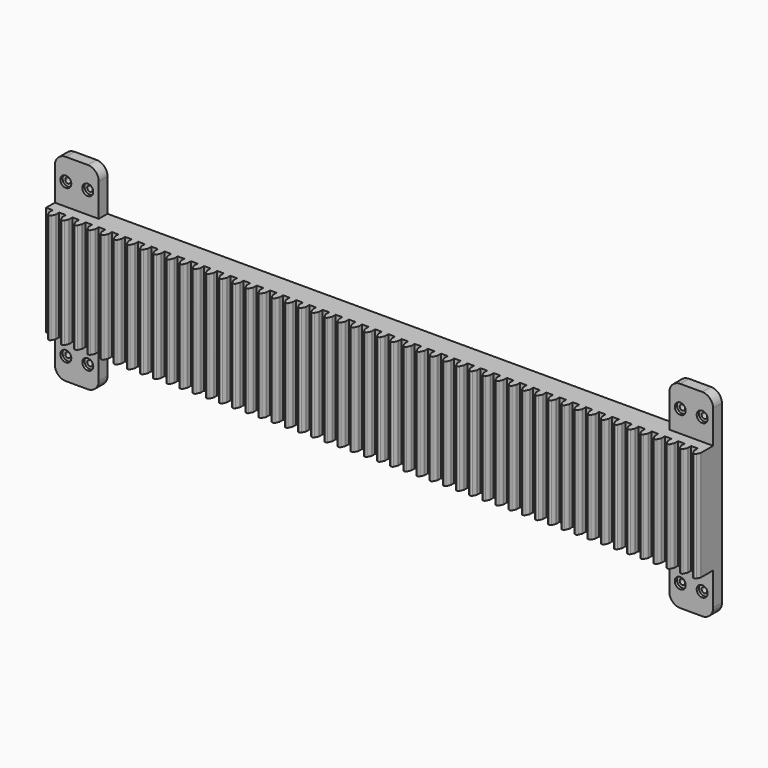
from build123d import *

# Parameters (mm, degrees)
F0_W            = 762
F0_H            = 127
F1_DEPTH        = 25.4
F3_DEPTH        = 127
F5_DEPTH        = 12.7
F10_D           = 6.35
F10_CBORE_D     = 12.7
F10_CBORE_DEPTH = 3.175


with BuildPart() as f1:
    # F0 (on Front) → F1 (new body)
    with BuildSketch(Plane.XZ):
        with Locations((-2.667001, -208.162353)):
            Rectangle(F0_W, F0_H)
    extrude(amount=F1_DEPTH)

    # F2 (on face) → F3 (join, through all)
    with BuildSketch(Plane(origin=(0, 0, -271.662353), x_dir=(1, 0, 0), z_dir=(0, 0, -1))):
        Polygon((-376.047001, 25.4), (-383.667001, 25.4), (-383.667001, 19.05), (378.332999, 19.05), (378.332999, 25.4), (370.712999, 25.4), (363.092999, 25.4), (355.472999, 25.4), (347.852999, 25.4), (340.232999, 25.4), (332.612999, 25.4), (324.992999, 25.4), (317.372999, 25.4), (309.752999, 25.4), (302.132999, 25.4), (294.512999, 25.4), (286.892999, 25.4), (279.272999, 25.4), (271.652999, 25.4), (264.032999, 25.4), (256.412999, 25.4), (248.792999, 25.4), (241.172999, 25.4), (233.552999, 25.4), (225.932999, 25.4), (218.312999, 25.4), (210.692999, 25.4), (203.072999, 25.4), (195.452999, 25.4), (187.832999, 25.4), (180.212999, 25.4), (172.592999, 25.4), (164.972999, 25.4), (157.352999, 25.4), (149.732999, 25.4), (142.112999, 25.4), (134.492999, 25.4), (126.872999, 25.4), (119.252999, 25.4), (111.632999, 25.4), (104.012999, 25.4), (96.392999, 25.4), (88.772999, 25.4), (81.152999, 25.4), (73.532999, 25.4), (65.912999, 25.4), (58.292999, 25.4), (50.672999, 25.4), (43.052999, 25.4), (35.432999, 25.4), (27.812999, 25.4), (20.192999, 25.4), (12.572999, 25.4), (4.952999, 25.4), (-2.667001, 25.4), (-10.287001, 25.4), (-17.907001, 25.4), (-25.527001, 25.4), (-33.147001, 25.4), (-40.767001, 25.4), (-48.387001, 25.4), (-56.007001, 25.4), (-63.627001, 25.4), (-71.247001, 25.4), (-78.867001, 25.4), (-86.487001, 25.4), (-94.107001, 25.4), (-101.727001, 25.4), (-109.347001, 25.4), (-116.967001, 25.4), (-124.587001, 25.4), (-132.207001, 25.4), (-139.827001, 25.4), (-147.447001, 25.4), (-155.067001, 25.4), (-162.687001, 25.4), (-170.307001, 25.4), (-177.927001, 25.4), (-185.547001, 25.4), (-193.167001, 25.4), (-200.787001, 25.4), (-208.407001, 25.4), (-216.027001, 25.4), (-223.647001, 25.4), (-231.267001, 25.4), (-238.887001, 25.4), (-246.507001, 25.4), (-254.127001, 25.4), (-261.747001, 25.4), (-269.367001, 25.4), (-276.987001, 25.4), (-284.607001, 25.4), (-292.227001, 25.4), (-299.847001, 25.4), (-307.467001, 25.4), (-315.087001, 25.4), (-322.707001, 25.4), (-330.327001, 25.4), (-337.947001, 25.4), (-345.567001, 25.4), (-353.187001, 25.4), (-360.807001, 25.4), (-368.427001, 25.4), align=None)
        with BuildLine():
            Line((-360.807001, 30.12806), (-360.807001, 25.4))
            Line((-360.807001, 25.4), (-353.187001, 25.4))
            Line((-353.187001, 25.4), (-353.187001, 30.12806))
            ThreePointArc((-353.187001, 30.12806), (-353.224631, 30.471658), (-353.335737, 30.798966))
            Line((-353.335737, 30.798966), (-355.128429, 34.643406))
            ThreePointArc((-355.128429, 34.643406), (-355.714229, 35.311384), (-356.567192, 35.56))
            Line((-356.567192, 35.56), (-357.426809, 35.56))
            ThreePointArc((-357.426809, 35.56), (-358.279772, 35.311384), (-358.865572, 34.643406))
            Line((-358.865572, 34.643406), (-360.658264, 30.798966))
            ThreePointArc((-360.658264, 30.798966), (-360.76937, 30.471658), (-360.807001, 30.12806))
        make_face()
        with BuildLine():
            Line((-376.047001, 30.12806), (-376.047001, 25.4))
            Line((-376.047001, 25.4), (-368.427001, 25.4))
            Line((-368.427001, 25.4), (-368.427001, 30.12806))
            ThreePointArc((-368.427001, 30.12806), (-368.464631, 30.471658), (-368.575737, 30.798966))
            Line((-368.575737, 30.798966), (-370.368429, 34.643406))
            ThreePointArc((-370.368429, 34.643406), (-370.954229, 35.311384), (-371.807192, 35.56))
            Line((-371.807192, 35.56), (-372.666809, 35.56))
            ThreePointArc((-372.666809, 35.56), (-373.519772, 35.311384), (-374.105572, 34.643406))
            Line((-374.105572, 34.643406), (-375.898264, 30.798966))
            ThreePointArc((-375.898264, 30.798966), (-376.00937, 30.471658), (-376.047001, 30.12806))
        make_face()
        with BuildLine():
            Line((-345.567001, 30.12806), (-345.567001, 25.4))
            Line((-345.567001, 25.4), (-337.947001, 25.4))
            Line((-337.947001, 25.4), (-337.947001, 30.12806))
            ThreePointArc((-337.947001, 30.12806), (-337.984631, 30.471658), (-338.095737, 30.798966))
            Line((-338.095737, 30.798966), (-339.888429, 34.643406))
            ThreePointArc((-339.888429, 34.643406), (-340.474229, 35.311384), (-341.327192, 35.56))
            Line((-341.327192, 35.56), (-342.186809, 35.56))
            ThreePointArc((-342.186809, 35.56), (-343.039772, 35.311384), (-343.625572, 34.643406))
            Line((-343.625572, 34.643406), (-345.418264, 30.798966))
            ThreePointArc((-345.418264, 30.798966), (-345.52937, 30.471658), (-345.567001, 30.12806))
        make_face()
        with BuildLine():
            Line((-315.087001, 30.12806), (-315.087001, 25.4))
            Line((-315.087001, 25.4), (-307.467001, 25.4))
            Line((-307.467001, 25.4), (-307.467001, 30.12806))
            ThreePointArc((-307.467001, 30.12806), (-307.504631, 30.471658), (-307.615737, 30.798966))
            Line((-307.615737, 30.798966), (-309.408429, 34.643406))
            ThreePointArc((-309.408429, 34.643406), (-309.994229, 35.311384), (-310.847192, 35.56))
            Line((-310.847192, 35.56), (-311.706809, 35.56))
            ThreePointArc((-311.706809, 35.56), (-312.559772, 35.311384), (-313.145572, 34.643406))
            Line((-313.145572, 34.643406), (-314.938264, 30.798966))
            ThreePointArc((-314.938264, 30.798966), (-315.04937, 30.471658), (-315.087001, 30.12806))
        make_face()
        with BuildLine():
            Line((-330.327001, 30.12806), (-330.327001, 25.4))
            Line((-330.327001, 25.4), (-322.707001, 25.4))
            Line((-322.707001, 25.4), (-322.707001, 30.12806))
            ThreePointArc((-322.707001, 30.12806), (-322.744631, 30.471658), (-322.855737, 30.798966))
            Line((-322.855737, 30.798966), (-324.648429, 34.643406))
            ThreePointArc((-324.648429, 34.643406), (-325.234229, 35.311384), (-326.087192, 35.56))
            Line((-326.087192, 35.56), (-326.946809, 35.56))
            ThreePointArc((-326.946809, 35.56), (-327.799772, 35.311384), (-328.385572, 34.643406))
            Line((-328.385572, 34.643406), (-330.178264, 30.798966))
            ThreePointArc((-330.178264, 30.798966), (-330.28937, 30.471658), (-330.327001, 30.12806))
        make_face()
        with BuildLine():
            Line((-299.847001, 30.12806), (-299.847001, 25.4))
            Line((-299.847001, 25.4), (-292.227001, 25.4))
            Line((-292.227001, 25.4), (-292.227001, 30.12806))
            ThreePointArc((-292.227001, 30.12806), (-292.264631, 30.471658), (-292.375737, 30.798966))
            Line((-292.375737, 30.798966), (-294.168429, 34.643406))
            ThreePointArc((-294.168429, 34.643406), (-294.754229, 35.311384), (-295.607192, 35.56))
            Line((-295.607192, 35.56), (-296.466809, 35.56))
            ThreePointArc((-296.466809, 35.56), (-297.319772, 35.311384), (-297.905572, 34.643406))
            Line((-297.905572, 34.643406), (-299.698264, 30.798966))
            ThreePointArc((-299.698264, 30.798966), (-299.80937, 30.471658), (-299.847001, 30.12806))
        make_face()
        with BuildLine():
            Line((-284.607001, 30.12806), (-284.607001, 25.4))
            Line((-284.607001, 25.4), (-276.987001, 25.4))
            Line((-276.987001, 25.4), (-276.987001, 30.12806))
            ThreePointArc((-276.987001, 30.12806), (-277.024631, 30.471658), (-277.135737, 30.798966))
            Line((-277.135737, 30.798966), (-278.928429, 34.643406))
            ThreePointArc((-278.928429, 34.643406), (-279.514229, 35.311384), (-280.367192, 35.56))
            Line((-280.367192, 35.56), (-281.226809, 35.56))
            ThreePointArc((-281.226809, 35.56), (-282.079772, 35.311384), (-282.665572, 34.643406))
            Line((-282.665572, 34.643406), (-284.458264, 30.798966))
            ThreePointArc((-284.458264, 30.798966), (-284.56937, 30.471658), (-284.607001, 30.12806))
        make_face()
        with BuildLine():
            Line((-269.367001, 30.12806), (-269.367001, 25.4))
            Line((-269.367001, 25.4), (-261.747001, 25.4))
            Line((-261.747001, 25.4), (-261.747001, 30.12806))
            ThreePointArc((-261.747001, 30.12806), (-261.784631, 30.471658), (-261.895737, 30.798966))
            Line((-261.895737, 30.798966), (-263.688429, 34.643406))
            ThreePointArc((-263.688429, 34.643406), (-264.274229, 35.311384), (-265.127192, 35.56))
            Line((-265.127192, 35.56), (-265.986809, 35.56))
            ThreePointArc((-265.986809, 35.56), (-266.839772, 35.311384), (-267.425572, 34.643406))
            Line((-267.425572, 34.643406), (-269.218264, 30.798966))
            ThreePointArc((-269.218264, 30.798966), (-269.32937, 30.471658), (-269.367001, 30.12806))
        make_face()
        with BuildLine():
            Line((-254.127001, 30.12806), (-254.127001, 25.4))
            Line((-254.127001, 25.4), (-246.507001, 25.4))
            Line((-246.507001, 25.4), (-246.507001, 30.12806))
            ThreePointArc((-246.507001, 30.12806), (-246.544631, 30.471658), (-246.655737, 30.798966))
            Line((-246.655737, 30.798966), (-248.448429, 34.643406))
            ThreePointArc((-248.448429, 34.643406), (-249.034229, 35.311384), (-249.887192, 35.56))
            Line((-249.887192, 35.56), (-250.746809, 35.56))
            ThreePointArc((-250.746809, 35.56), (-251.599772, 35.311384), (-252.185572, 34.643406))
            Line((-252.185572, 34.643406), (-253.978264, 30.798966))
            ThreePointArc((-253.978264, 30.798966), (-254.08937, 30.471658), (-254.127001, 30.12806))
        make_face()
        with BuildLine():
            Line((-238.887001, 30.12806), (-238.887001, 25.4))
            Line((-238.887001, 25.4), (-231.267001, 25.4))
            Line((-231.267001, 25.4), (-231.267001, 30.12806))
            ThreePointArc((-231.267001, 30.12806), (-231.304631, 30.471658), (-231.415737, 30.798966))
            Line((-231.415737, 30.798966), (-233.208429, 34.643406))
            ThreePointArc((-233.208429, 34.643406), (-233.794229, 35.311384), (-234.647192, 35.56))
            Line((-234.647192, 35.56), (-235.506809, 35.56))
            ThreePointArc((-235.506809, 35.56), (-236.359772, 35.311384), (-236.945572, 34.643406))
            Line((-236.945572, 34.643406), (-238.738264, 30.798966))
            ThreePointArc((-238.738264, 30.798966), (-238.84937, 30.471658), (-238.887001, 30.12806))
        make_face()
        with BuildLine():
            Line((-223.647001, 30.12806), (-223.647001, 25.4))
            Line((-223.647001, 25.4), (-216.027001, 25.4))
            Line((-216.027001, 25.4), (-216.027001, 30.12806))
            ThreePointArc((-216.027001, 30.12806), (-216.064631, 30.471658), (-216.175737, 30.798966))
            Line((-216.175737, 30.798966), (-217.968429, 34.643406))
            ThreePointArc((-217.968429, 34.643406), (-218.554229, 35.311384), (-219.407192, 35.56))
            Line((-219.407192, 35.56), (-220.266809, 35.56))
            ThreePointArc((-220.266809, 35.56), (-221.119772, 35.311384), (-221.705572, 34.643406))
            Line((-221.705572, 34.643406), (-223.498264, 30.798966))
            ThreePointArc((-223.498264, 30.798966), (-223.60937, 30.471658), (-223.647001, 30.12806))
        make_face()
        with BuildLine():
            Line((-208.407001, 30.12806), (-208.407001, 25.4))
            Line((-208.407001, 25.4), (-200.787001, 25.4))
            Line((-200.787001, 25.4), (-200.787001, 30.12806))
            ThreePointArc((-200.787001, 30.12806), (-200.824631, 30.471658), (-200.935737, 30.798966))
            Line((-200.935737, 30.798966), (-202.728429, 34.643406))
            ThreePointArc((-202.728429, 34.643406), (-203.314229, 35.311384), (-204.167192, 35.56))
            Line((-204.167192, 35.56), (-205.026809, 35.56))
            ThreePointArc((-205.026809, 35.56), (-205.879772, 35.311384), (-206.465572, 34.643406))
            Line((-206.465572, 34.643406), (-208.258264, 30.798966))
            ThreePointArc((-208.258264, 30.798966), (-208.36937, 30.471658), (-208.407001, 30.12806))
        make_face()
        with BuildLine():
            Line((-193.167001, 30.12806), (-193.167001, 25.4))
            Line((-193.167001, 25.4), (-185.547001, 25.4))
            Line((-185.547001, 25.4), (-185.547001, 30.12806))
            ThreePointArc((-185.547001, 30.12806), (-185.584631, 30.471658), (-185.695737, 30.798966))
            Line((-185.695737, 30.798966), (-187.488429, 34.643406))
            ThreePointArc((-187.488429, 34.643406), (-188.074229, 35.311384), (-188.927192, 35.56))
            Line((-188.927192, 35.56), (-189.786809, 35.56))
            ThreePointArc((-189.786809, 35.56), (-190.639772, 35.311384), (-191.225572, 34.643406))
            Line((-191.225572, 34.643406), (-193.018264, 30.798966))
            ThreePointArc((-193.018264, 30.798966), (-193.12937, 30.471658), (-193.167001, 30.12806))
        make_face()
        with BuildLine():
            Line((-177.927001, 30.12806), (-177.927001, 25.4))
            Line((-177.927001, 25.4), (-170.307001, 25.4))
            Line((-170.307001, 25.4), (-170.307001, 30.12806))
            ThreePointArc((-170.307001, 30.12806), (-170.344631, 30.471658), (-170.455737, 30.798966))
            Line((-170.455737, 30.798966), (-172.248429, 34.643406))
            ThreePointArc((-172.248429, 34.643406), (-172.834229, 35.311384), (-173.687192, 35.56))
            Line((-173.687192, 35.56), (-174.546809, 35.56))
            ThreePointArc((-174.546809, 35.56), (-175.399772, 35.311384), (-175.985572, 34.643406))
            Line((-175.985572, 34.643406), (-177.778264, 30.798966))
            ThreePointArc((-177.778264, 30.798966), (-177.88937, 30.471658), (-177.927001, 30.12806))
        make_face()
        with BuildLine():
            Line((-162.687001, 30.12806), (-162.687001, 25.4))
            Line((-162.687001, 25.4), (-155.067001, 25.4))
            Line((-155.067001, 25.4), (-155.067001, 30.12806))
            ThreePointArc((-155.067001, 30.12806), (-155.104631, 30.471658), (-155.215737, 30.798966))
            Line((-155.215737, 30.798966), (-157.008429, 34.643406))
            ThreePointArc((-157.008429, 34.643406), (-157.594229, 35.311384), (-158.447192, 35.56))
            Line((-158.447192, 35.56), (-159.306809, 35.56))
            ThreePointArc((-159.306809, 35.56), (-160.159772, 35.311384), (-160.745572, 34.643406))
            Line((-160.745572, 34.643406), (-162.538264, 30.798966))
            ThreePointArc((-162.538264, 30.798966), (-162.64937, 30.471658), (-162.687001, 30.12806))
        make_face()
        with BuildLine():
            Line((-147.447001, 30.12806), (-147.447001, 25.4))
            Line((-147.447001, 25.4), (-139.827001, 25.4))
            Line((-139.827001, 25.4), (-139.827001, 30.12806))
            ThreePointArc((-139.827001, 30.12806), (-139.864631, 30.471658), (-139.975737, 30.798966))
            Line((-139.975737, 30.798966), (-141.768429, 34.643406))
            ThreePointArc((-141.768429, 34.643406), (-142.354229, 35.311384), (-143.207192, 35.56))
            Line((-143.207192, 35.56), (-144.066809, 35.56))
            ThreePointArc((-144.066809, 35.56), (-144.919772, 35.311384), (-145.505572, 34.643406))
            Line((-145.505572, 34.643406), (-147.298264, 30.798966))
            ThreePointArc((-147.298264, 30.798966), (-147.40937, 30.471658), (-147.447001, 30.12806))
        make_face()
        with BuildLine():
            Line((-132.207001, 30.12806), (-132.207001, 25.4))
            Line((-132.207001, 25.4), (-124.587001, 25.4))
            Line((-124.587001, 25.4), (-124.587001, 30.12806))
            ThreePointArc((-124.587001, 30.12806), (-124.624631, 30.471658), (-124.735737, 30.798966))
            Line((-124.735737, 30.798966), (-126.528429, 34.643406))
            ThreePointArc((-126.528429, 34.643406), (-127.114229, 35.311384), (-127.967192, 35.56))
            Line((-127.967192, 35.56), (-128.826809, 35.56))
            ThreePointArc((-128.826809, 35.56), (-129.679772, 35.311384), (-130.265572, 34.643406))
            Line((-130.265572, 34.643406), (-132.058264, 30.798966))
            ThreePointArc((-132.058264, 30.798966), (-132.16937, 30.471658), (-132.207001, 30.12806))
        make_face()
        with BuildLine():
            Line((-116.967001, 30.12806), (-116.967001, 25.4))
            Line((-116.967001, 25.4), (-109.347001, 25.4))
            Line((-109.347001, 25.4), (-109.347001, 30.12806))
            ThreePointArc((-109.347001, 30.12806), (-109.384631, 30.471658), (-109.495737, 30.798966))
            Line((-109.495737, 30.798966), (-111.288429, 34.643406))
            ThreePointArc((-111.288429, 34.643406), (-111.874229, 35.311384), (-112.727192, 35.56))
            Line((-112.727192, 35.56), (-113.586809, 35.56))
            ThreePointArc((-113.586809, 35.56), (-114.439772, 35.311384), (-115.025572, 34.643406))
            Line((-115.025572, 34.643406), (-116.818264, 30.798966))
            ThreePointArc((-116.818264, 30.798966), (-116.92937, 30.471658), (-116.967001, 30.12806))
        make_face()
        with BuildLine():
            Line((-101.727001, 30.12806), (-101.727001, 25.4))
            Line((-101.727001, 25.4), (-94.107001, 25.4))
            Line((-94.107001, 25.4), (-94.107001, 30.12806))
            ThreePointArc((-94.107001, 30.12806), (-94.144631, 30.471658), (-94.255737, 30.798966))
            Line((-94.255737, 30.798966), (-96.048429, 34.643406))
            ThreePointArc((-96.048429, 34.643406), (-96.634229, 35.311384), (-97.487192, 35.56))
            Line((-97.487192, 35.56), (-98.346809, 35.56))
            ThreePointArc((-98.346809, 35.56), (-99.199772, 35.311384), (-99.785572, 34.643406))
            Line((-99.785572, 34.643406), (-101.578264, 30.798966))
            ThreePointArc((-101.578264, 30.798966), (-101.68937, 30.471658), (-101.727001, 30.12806))
        make_face()
        with BuildLine():
            Line((-86.487001, 30.12806), (-86.487001, 25.4))
            Line((-86.487001, 25.4), (-78.867001, 25.4))
            Line((-78.867001, 25.4), (-78.867001, 30.12806))
            ThreePointArc((-78.867001, 30.12806), (-78.904631, 30.471658), (-79.015737, 30.798966))
            Line((-79.015737, 30.798966), (-80.808429, 34.643406))
            ThreePointArc((-80.808429, 34.643406), (-81.394229, 35.311384), (-82.247192, 35.56))
            Line((-82.247192, 35.56), (-83.106809, 35.56))
            ThreePointArc((-83.106809, 35.56), (-83.959772, 35.311384), (-84.545572, 34.643406))
            Line((-84.545572, 34.643406), (-86.338264, 30.798966))
            ThreePointArc((-86.338264, 30.798966), (-86.44937, 30.471658), (-86.487001, 30.12806))
        make_face()
        with BuildLine():
            Line((-71.247001, 30.12806), (-71.247001, 25.4))
            Line((-71.247001, 25.4), (-63.627001, 25.4))
            Line((-63.627001, 25.4), (-63.627001, 30.12806))
            ThreePointArc((-63.627001, 30.12806), (-63.664631, 30.471658), (-63.775737, 30.798966))
            Line((-63.775737, 30.798966), (-65.568429, 34.643406))
            ThreePointArc((-65.568429, 34.643406), (-66.154229, 35.311384), (-67.007192, 35.56))
            Line((-67.007192, 35.56), (-67.866809, 35.56))
            ThreePointArc((-67.866809, 35.56), (-68.719772, 35.311384), (-69.305572, 34.643406))
            Line((-69.305572, 34.643406), (-71.098264, 30.798966))
            ThreePointArc((-71.098264, 30.798966), (-71.20937, 30.471658), (-71.247001, 30.12806))
        make_face()
        with BuildLine():
            Line((-56.007001, 30.12806), (-56.007001, 25.4))
            Line((-56.007001, 25.4), (-48.387001, 25.4))
            Line((-48.387001, 25.4), (-48.387001, 30.12806))
            ThreePointArc((-48.387001, 30.12806), (-48.424631, 30.471658), (-48.535737, 30.798966))
            Line((-48.535737, 30.798966), (-50.328429, 34.643406))
            ThreePointArc((-50.328429, 34.643406), (-50.914229, 35.311384), (-51.767192, 35.56))
            Line((-51.767192, 35.56), (-52.626809, 35.56))
            ThreePointArc((-52.626809, 35.56), (-53.479772, 35.311384), (-54.065572, 34.643406))
            Line((-54.065572, 34.643406), (-55.858264, 30.798966))
            ThreePointArc((-55.858264, 30.798966), (-55.96937, 30.471658), (-56.007001, 30.12806))
        make_face()
        with BuildLine():
            Line((-40.767001, 30.12806), (-40.767001, 25.4))
            Line((-40.767001, 25.4), (-33.147001, 25.4))
            Line((-33.147001, 25.4), (-33.147001, 30.12806))
            ThreePointArc((-33.147001, 30.12806), (-33.184631, 30.471658), (-33.295737, 30.798966))
            Line((-33.295737, 30.798966), (-35.088429, 34.643406))
            ThreePointArc((-35.088429, 34.643406), (-35.674229, 35.311384), (-36.527192, 35.56))
            Line((-36.527192, 35.56), (-37.386809, 35.56))
            ThreePointArc((-37.386809, 35.56), (-38.239772, 35.311384), (-38.825572, 34.643406))
            Line((-38.825572, 34.643406), (-40.618264, 30.798966))
            ThreePointArc((-40.618264, 30.798966), (-40.72937, 30.471658), (-40.767001, 30.12806))
        make_face()
        with BuildLine():
            Line((-25.527001, 30.12806), (-25.527001, 25.4))
            Line((-25.527001, 25.4), (-17.907001, 25.4))
            Line((-17.907001, 25.4), (-17.907001, 30.12806))
            ThreePointArc((-17.907001, 30.12806), (-17.944631, 30.471658), (-18.055737, 30.798966))
            Line((-18.055737, 30.798966), (-19.848429, 34.643406))
            ThreePointArc((-19.848429, 34.643406), (-20.434229, 35.311384), (-21.287192, 35.56))
            Line((-21.287192, 35.56), (-22.146809, 35.56))
            ThreePointArc((-22.146809, 35.56), (-22.999772, 35.311384), (-23.585572, 34.643406))
            Line((-23.585572, 34.643406), (-25.378264, 30.798966))
            ThreePointArc((-25.378264, 30.798966), (-25.48937, 30.471658), (-25.527001, 30.12806))
        make_face()
        with BuildLine():
            Line((-10.287001, 30.12806), (-10.287001, 25.4))
            Line((-10.287001, 25.4), (-2.667001, 25.4))
            Line((-2.667001, 25.4), (-2.667001, 30.12806))
            ThreePointArc((-2.667001, 30.12806), (-2.704631, 30.471658), (-2.815737, 30.798966))
            Line((-2.815737, 30.798966), (-4.608429, 34.643406))
            ThreePointArc((-4.608429, 34.643406), (-5.194229, 35.311384), (-6.047192, 35.56))
            Line((-6.047192, 35.56), (-6.906809, 35.56))
            ThreePointArc((-6.906809, 35.56), (-7.759772, 35.311384), (-8.345572, 34.643406))
            Line((-8.345572, 34.643406), (-10.138264, 30.798966))
            ThreePointArc((-10.138264, 30.798966), (-10.24937, 30.471658), (-10.287001, 30.12806))
        make_face()
        with BuildLine():
            Line((4.952999, 30.12806), (4.952999, 25.4))
            Line((4.952999, 25.4), (12.572999, 25.4))
            Line((12.572999, 25.4), (12.572999, 30.12806))
            ThreePointArc((12.572999, 30.12806), (12.535369, 30.471658), (12.424263, 30.798966))
            Line((12.424263, 30.798966), (10.631571, 34.643406))
            ThreePointArc((10.631571, 34.643406), (10.045771, 35.311384), (9.192808, 35.56))
            Line((9.192808, 35.56), (8.333191, 35.56))
            ThreePointArc((8.333191, 35.56), (7.480228, 35.311384), (6.894428, 34.643406))
            Line((6.894428, 34.643406), (5.101736, 30.798966))
            ThreePointArc((5.101736, 30.798966), (4.99063, 30.471658), (4.952999, 30.12806))
        make_face()
        with BuildLine():
            Line((20.192999, 25.4), (27.812999, 25.4))
            Line((27.812999, 25.4), (27.812999, 30.12806))
            ThreePointArc((27.812999, 30.12806), (27.775369, 30.471658), (27.664263, 30.798966))
            Line((27.664263, 30.798966), (25.871571, 34.643406))
            ThreePointArc((25.871571, 34.643406), (25.285771, 35.311384), (24.432808, 35.56))
            Line((24.432808, 35.56), (23.573191, 35.56))
            ThreePointArc((23.573191, 35.56), (22.720228, 35.311384), (22.134428, 34.643406))
            Line((22.134428, 34.643406), (20.341736, 30.798966))
            ThreePointArc((20.341736, 30.798966), (20.23063, 30.471658), (20.192999, 30.12806))
            Line((20.192999, 30.12806), (20.192999, 25.4))
        make_face()
        with BuildLine():
            Line((35.432999, 25.4), (43.052999, 25.4))
            Line((43.052999, 25.4), (43.052999, 30.12806))
            ThreePointArc((43.052999, 30.12806), (43.015369, 30.471658), (42.904263, 30.798966))
            Line((42.904263, 30.798966), (41.111571, 34.643406))
            ThreePointArc((41.111571, 34.643406), (40.525771, 35.311384), (39.672808, 35.56))
            Line((39.672808, 35.56), (38.813191, 35.56))
            ThreePointArc((38.813191, 35.56), (37.960228, 35.311384), (37.374428, 34.643406))
            Line((37.374428, 34.643406), (35.581736, 30.798966))
            ThreePointArc((35.581736, 30.798966), (35.47063, 30.471658), (35.432999, 30.12806))
            Line((35.432999, 30.12806), (35.432999, 25.4))
        make_face()
        with BuildLine():
            Line((65.912999, 25.4), (73.532999, 25.4))
            Line((73.532999, 25.4), (73.532999, 30.12806))
            ThreePointArc((73.532999, 30.12806), (73.495369, 30.471658), (73.384263, 30.798966))
            Line((73.384263, 30.798966), (71.591571, 34.643406))
            ThreePointArc((71.591571, 34.643406), (71.005771, 35.311384), (70.152808, 35.56))
            Line((70.152808, 35.56), (69.293191, 35.56))
            ThreePointArc((69.293191, 35.56), (68.440228, 35.311384), (67.854428, 34.643406))
            Line((67.854428, 34.643406), (66.061736, 30.798966))
            ThreePointArc((66.061736, 30.798966), (65.95063, 30.471658), (65.912999, 30.12806))
            Line((65.912999, 30.12806), (65.912999, 25.4))
        make_face()
        with BuildLine():
            Line((50.672999, 25.4), (58.292999, 25.4))
            Line((58.292999, 25.4), (58.292999, 30.12806))
            ThreePointArc((58.292999, 30.12806), (58.255369, 30.471658), (58.144263, 30.798966))
            Line((58.144263, 30.798966), (56.351571, 34.643406))
            ThreePointArc((56.351571, 34.643406), (55.765771, 35.311384), (54.912808, 35.56))
            Line((54.912808, 35.56), (54.053191, 35.56))
            ThreePointArc((54.053191, 35.56), (53.200228, 35.311384), (52.614428, 34.643406))
            Line((52.614428, 34.643406), (50.821736, 30.798966))
            ThreePointArc((50.821736, 30.798966), (50.71063, 30.471658), (50.672999, 30.12806))
            Line((50.672999, 30.12806), (50.672999, 25.4))
        make_face()
        with BuildLine():
            Line((81.152999, 25.4), (88.772999, 25.4))
            Line((88.772999, 25.4), (88.772999, 30.12806))
            ThreePointArc((88.772999, 30.12806), (88.735369, 30.471658), (88.624263, 30.798966))
            Line((88.624263, 30.798966), (86.831571, 34.643406))
            ThreePointArc((86.831571, 34.643406), (86.245771, 35.311384), (85.392808, 35.56))
            Line((85.392808, 35.56), (84.533191, 35.56))
            ThreePointArc((84.533191, 35.56), (83.680228, 35.311384), (83.094428, 34.643406))
            Line((83.094428, 34.643406), (81.301736, 30.798966))
            ThreePointArc((81.301736, 30.798966), (81.19063, 30.471658), (81.152999, 30.12806))
            Line((81.152999, 30.12806), (81.152999, 25.4))
        make_face()
        with BuildLine():
            Line((111.632999, 25.4), (119.252999, 25.4))
            Line((119.252999, 25.4), (119.252999, 30.12806))
            ThreePointArc((119.252999, 30.12806), (119.215369, 30.471658), (119.104263, 30.798966))
            Line((119.104263, 30.798966), (117.311571, 34.643406))
            ThreePointArc((117.311571, 34.643406), (116.725771, 35.311384), (115.872808, 35.56))
            Line((115.872808, 35.56), (115.013191, 35.56))
            ThreePointArc((115.013191, 35.56), (114.160228, 35.311384), (113.574428, 34.643406))
            Line((113.574428, 34.643406), (111.781736, 30.798966))
            ThreePointArc((111.781736, 30.798966), (111.67063, 30.471658), (111.632999, 30.12806))
            Line((111.632999, 30.12806), (111.632999, 25.4))
        make_face()
        with BuildLine():
            Line((96.392999, 25.4), (104.012999, 25.4))
            Line((104.012999, 25.4), (104.012999, 30.12806))
            ThreePointArc((104.012999, 30.12806), (103.975369, 30.471658), (103.864263, 30.798966))
            Line((103.864263, 30.798966), (102.071571, 34.643406))
            ThreePointArc((102.071571, 34.643406), (101.485771, 35.311384), (100.632808, 35.56))
            Line((100.632808, 35.56), (99.773191, 35.56))
            ThreePointArc((99.773191, 35.56), (98.920228, 35.311384), (98.334428, 34.643406))
            Line((98.334428, 34.643406), (96.541736, 30.798966))
            ThreePointArc((96.541736, 30.798966), (96.43063, 30.471658), (96.392999, 30.12806))
            Line((96.392999, 30.12806), (96.392999, 25.4))
        make_face()
        with BuildLine():
            Line((126.872999, 25.4), (134.492999, 25.4))
            Line((134.492999, 25.4), (134.492999, 30.12806))
            ThreePointArc((134.492999, 30.12806), (134.455369, 30.471658), (134.344263, 30.798966))
            Line((134.344263, 30.798966), (132.551571, 34.643406))
            ThreePointArc((132.551571, 34.643406), (131.965771, 35.311384), (131.112808, 35.56))
            Line((131.112808, 35.56), (130.253191, 35.56))
            ThreePointArc((130.253191, 35.56), (129.400228, 35.311384), (128.814428, 34.643406))
            Line((128.814428, 34.643406), (127.021736, 30.798966))
            ThreePointArc((127.021736, 30.798966), (126.91063, 30.471658), (126.872999, 30.12806))
            Line((126.872999, 30.12806), (126.872999, 25.4))
        make_face()
        with BuildLine():
            Line((142.112999, 25.4), (149.732999, 25.4))
            Line((149.732999, 25.4), (149.732999, 30.12806))
            ThreePointArc((149.732999, 30.12806), (149.695369, 30.471658), (149.584263, 30.798966))
            Line((149.584263, 30.798966), (147.791571, 34.643406))
            ThreePointArc((147.791571, 34.643406), (147.205771, 35.311384), (146.352808, 35.56))
            Line((146.352808, 35.56), (145.493191, 35.56))
            ThreePointArc((145.493191, 35.56), (144.640228, 35.311384), (144.054428, 34.643406))
            Line((144.054428, 34.643406), (142.261736, 30.798966))
            ThreePointArc((142.261736, 30.798966), (142.15063, 30.471658), (142.112999, 30.12806))
            Line((142.112999, 30.12806), (142.112999, 25.4))
        make_face()
        with BuildLine():
            Line((157.352999, 25.4), (164.972999, 25.4))
            Line((164.972999, 25.4), (164.972999, 30.12806))
            ThreePointArc((164.972999, 30.12806), (164.935369, 30.471658), (164.824263, 30.798966))
            Line((164.824263, 30.798966), (163.031571, 34.643406))
            ThreePointArc((163.031571, 34.643406), (162.445771, 35.311384), (161.592808, 35.56))
            Line((161.592808, 35.56), (160.733191, 35.56))
            ThreePointArc((160.733191, 35.56), (159.880228, 35.311384), (159.294428, 34.643406))
            Line((159.294428, 34.643406), (157.501736, 30.798966))
            ThreePointArc((157.501736, 30.798966), (157.39063, 30.471658), (157.352999, 30.12806))
            Line((157.352999, 30.12806), (157.352999, 25.4))
        make_face()
        with BuildLine():
            Line((172.592999, 25.4), (180.212999, 25.4))
            Line((180.212999, 25.4), (180.212999, 30.12806))
            ThreePointArc((180.212999, 30.12806), (180.175369, 30.471658), (180.064263, 30.798966))
            Line((180.064263, 30.798966), (178.271571, 34.643406))
            ThreePointArc((178.271571, 34.643406), (177.685771, 35.311384), (176.832808, 35.56))
            Line((176.832808, 35.56), (175.973191, 35.56))
            ThreePointArc((175.973191, 35.56), (175.120228, 35.311384), (174.534428, 34.643406))
            Line((174.534428, 34.643406), (172.741736, 30.798966))
            ThreePointArc((172.741736, 30.798966), (172.63063, 30.471658), (172.592999, 30.12806))
            Line((172.592999, 30.12806), (172.592999, 25.4))
        make_face()
        with BuildLine():
            Line((187.832999, 25.4), (195.452999, 25.4))
            Line((195.452999, 25.4), (195.452999, 30.12806))
            ThreePointArc((195.452999, 30.12806), (195.415369, 30.471658), (195.304263, 30.798966))
            Line((195.304263, 30.798966), (193.511571, 34.643406))
            ThreePointArc((193.511571, 34.643406), (192.925771, 35.311384), (192.072808, 35.56))
            Line((192.072808, 35.56), (191.213191, 35.56))
            ThreePointArc((191.213191, 35.56), (190.360228, 35.311384), (189.774428, 34.643406))
            Line((189.774428, 34.643406), (187.981736, 30.798966))
            ThreePointArc((187.981736, 30.798966), (187.87063, 30.471658), (187.832999, 30.12806))
            Line((187.832999, 30.12806), (187.832999, 25.4))
        make_face()
        with BuildLine():
            Line((203.072999, 25.4), (210.692999, 25.4))
            Line((210.692999, 25.4), (210.692999, 30.12806))
            ThreePointArc((210.692999, 30.12806), (210.655369, 30.471658), (210.544263, 30.798966))
            Line((210.544263, 30.798966), (208.751571, 34.643406))
            ThreePointArc((208.751571, 34.643406), (208.165771, 35.311384), (207.312808, 35.56))
            Line((207.312808, 35.56), (206.453191, 35.56))
            ThreePointArc((206.453191, 35.56), (205.600228, 35.311384), (205.014428, 34.643406))
            Line((205.014428, 34.643406), (203.221736, 30.798966))
            ThreePointArc((203.221736, 30.798966), (203.11063, 30.471658), (203.072999, 30.12806))
            Line((203.072999, 30.12806), (203.072999, 25.4))
        make_face()
        with BuildLine():
            Line((218.312999, 25.4), (225.932999, 25.4))
            Line((225.932999, 25.4), (225.932999, 30.12806))
            ThreePointArc((225.932999, 30.12806), (225.895369, 30.471658), (225.784263, 30.798966))
            Line((225.784263, 30.798966), (223.991571, 34.643406))
            ThreePointArc((223.991571, 34.643406), (223.405771, 35.311384), (222.552808, 35.56))
            Line((222.552808, 35.56), (221.693191, 35.56))
            ThreePointArc((221.693191, 35.56), (220.840228, 35.311384), (220.254428, 34.643406))
            Line((220.254428, 34.643406), (218.461736, 30.798966))
            ThreePointArc((218.461736, 30.798966), (218.35063, 30.471658), (218.312999, 30.12806))
            Line((218.312999, 30.12806), (218.312999, 25.4))
        make_face()
        with BuildLine():
            Line((233.552999, 25.4), (241.172999, 25.4))
            Line((241.172999, 25.4), (241.172999, 30.12806))
            ThreePointArc((241.172999, 30.12806), (241.135369, 30.471658), (241.024263, 30.798966))
            Line((241.024263, 30.798966), (239.231571, 34.643406))
            ThreePointArc((239.231571, 34.643406), (238.645771, 35.311384), (237.792808, 35.56))
            Line((237.792808, 35.56), (236.933191, 35.56))
            ThreePointArc((236.933191, 35.56), (236.080228, 35.311384), (235.494428, 34.643406))
            Line((235.494428, 34.643406), (233.701736, 30.798966))
            ThreePointArc((233.701736, 30.798966), (233.59063, 30.471658), (233.552999, 30.12806))
            Line((233.552999, 30.12806), (233.552999, 25.4))
        make_face()
        with BuildLine():
            Line((248.792999, 25.4), (256.412999, 25.4))
            Line((256.412999, 25.4), (256.412999, 30.12806))
            ThreePointArc((256.412999, 30.12806), (256.375369, 30.471658), (256.264263, 30.798966))
            Line((256.264263, 30.798966), (254.471571, 34.643406))
            ThreePointArc((254.471571, 34.643406), (253.885771, 35.311384), (253.032808, 35.56))
            Line((253.032808, 35.56), (252.173191, 35.56))
            ThreePointArc((252.173191, 35.56), (251.320228, 35.311384), (250.734428, 34.643406))
            Line((250.734428, 34.643406), (248.941736, 30.798966))
            ThreePointArc((248.941736, 30.798966), (248.83063, 30.471658), (248.792999, 30.12806))
            Line((248.792999, 30.12806), (248.792999, 25.4))
        make_face()
        with BuildLine():
            Line((264.032999, 25.4), (271.652999, 25.4))
            Line((271.652999, 25.4), (271.652999, 30.12806))
            ThreePointArc((271.652999, 30.12806), (271.615369, 30.471658), (271.504263, 30.798966))
            Line((271.504263, 30.798966), (269.711571, 34.643406))
            ThreePointArc((269.711571, 34.643406), (269.125771, 35.311384), (268.272808, 35.56))
            Line((268.272808, 35.56), (267.413191, 35.56))
            ThreePointArc((267.413191, 35.56), (266.560228, 35.311384), (265.974428, 34.643406))
            Line((265.974428, 34.643406), (264.181736, 30.798966))
            ThreePointArc((264.181736, 30.798966), (264.07063, 30.471658), (264.032999, 30.12806))
            Line((264.032999, 30.12806), (264.032999, 25.4))
        make_face()
        with BuildLine():
            Line((279.272999, 25.4), (286.892999, 25.4))
            Line((286.892999, 25.4), (286.892999, 30.12806))
            ThreePointArc((286.892999, 30.12806), (286.855369, 30.471658), (286.744263, 30.798966))
            Line((286.744263, 30.798966), (284.951571, 34.643406))
            ThreePointArc((284.951571, 34.643406), (284.365771, 35.311384), (283.512808, 35.56))
            Line((283.512808, 35.56), (282.653191, 35.56))
            ThreePointArc((282.653191, 35.56), (281.800228, 35.311384), (281.214428, 34.643406))
            Line((281.214428, 34.643406), (279.421736, 30.798966))
            ThreePointArc((279.421736, 30.798966), (279.31063, 30.471658), (279.272999, 30.12806))
            Line((279.272999, 30.12806), (279.272999, 25.4))
        make_face()
        with BuildLine():
            Line((294.512999, 25.4), (302.132999, 25.4))
            Line((302.132999, 25.4), (302.132999, 30.12806))
            ThreePointArc((302.132999, 30.12806), (302.095369, 30.471658), (301.984263, 30.798966))
            Line((301.984263, 30.798966), (300.191571, 34.643406))
            ThreePointArc((300.191571, 34.643406), (299.605771, 35.311384), (298.752808, 35.56))
            Line((298.752808, 35.56), (297.893191, 35.56))
            ThreePointArc((297.893191, 35.56), (297.040228, 35.311384), (296.454428, 34.643406))
            Line((296.454428, 34.643406), (294.661736, 30.798966))
            ThreePointArc((294.661736, 30.798966), (294.55063, 30.471658), (294.512999, 30.12806))
            Line((294.512999, 30.12806), (294.512999, 25.4))
        make_face()
        with BuildLine():
            Line((309.752999, 25.4), (317.372999, 25.4))
            Line((317.372999, 25.4), (317.372999, 30.12806))
            ThreePointArc((317.372999, 30.12806), (317.335369, 30.471658), (317.224263, 30.798966))
            Line((317.224263, 30.798966), (315.431571, 34.643406))
            ThreePointArc((315.431571, 34.643406), (314.845771, 35.311384), (313.992808, 35.56))
            Line((313.992808, 35.56), (313.133191, 35.56))
            ThreePointArc((313.133191, 35.56), (312.280228, 35.311384), (311.694428, 34.643406))
            Line((311.694428, 34.643406), (309.901736, 30.798966))
            ThreePointArc((309.901736, 30.798966), (309.79063, 30.471658), (309.752999, 30.12806))
            Line((309.752999, 30.12806), (309.752999, 25.4))
        make_face()
        with BuildLine():
            Line((324.992999, 25.4), (332.612999, 25.4))
            Line((332.612999, 25.4), (332.612999, 30.12806))
            ThreePointArc((332.612999, 30.12806), (332.575369, 30.471658), (332.464263, 30.798966))
            Line((332.464263, 30.798966), (330.671571, 34.643406))
            ThreePointArc((330.671571, 34.643406), (330.085771, 35.311384), (329.232808, 35.56))
            Line((329.232808, 35.56), (328.373191, 35.56))
            ThreePointArc((328.373191, 35.56), (327.520228, 35.311384), (326.934428, 34.643406))
            Line((326.934428, 34.643406), (325.141736, 30.798966))
            ThreePointArc((325.141736, 30.798966), (325.03063, 30.471658), (324.992999, 30.12806))
            Line((324.992999, 30.12806), (324.992999, 25.4))
        make_face()
        with BuildLine():
            Line((340.232999, 25.4), (347.852999, 25.4))
            Line((347.852999, 25.4), (347.852999, 30.12806))
            ThreePointArc((347.852999, 30.12806), (347.815369, 30.471658), (347.704263, 30.798966))
            Line((347.704263, 30.798966), (345.911571, 34.643406))
            ThreePointArc((345.911571, 34.643406), (345.325771, 35.311384), (344.472808, 35.56))
            Line((344.472808, 35.56), (343.613191, 35.56))
            ThreePointArc((343.613191, 35.56), (342.760228, 35.311384), (342.174428, 34.643406))
            Line((342.174428, 34.643406), (340.381736, 30.798966))
            ThreePointArc((340.381736, 30.798966), (340.27063, 30.471658), (340.232999, 30.12806))
            Line((340.232999, 30.12806), (340.232999, 25.4))
        make_face()
        with BuildLine():
            Line((355.472999, 25.4), (363.092999, 25.4))
            Line((363.092999, 25.4), (363.092999, 30.12806))
            ThreePointArc((363.092999, 30.12806), (363.055369, 30.471658), (362.944263, 30.798966))
            Line((362.944263, 30.798966), (361.151571, 34.643406))
            ThreePointArc((361.151571, 34.643406), (360.565771, 35.311384), (359.712808, 35.56))
            Line((359.712808, 35.56), (358.853191, 35.56))
            ThreePointArc((358.853191, 35.56), (358.000228, 35.311384), (357.414428, 34.643406))
            Line((357.414428, 34.643406), (355.621736, 30.798966))
            ThreePointArc((355.621736, 30.798966), (355.51063, 30.471658), (355.472999, 30.12806))
            Line((355.472999, 30.12806), (355.472999, 25.4))
        make_face()
        with BuildLine():
            Line((370.712999, 25.4), (378.332999, 25.4))
            Line((378.332999, 25.4), (378.332999, 30.12806))
            ThreePointArc((378.332999, 30.12806), (378.295369, 30.471658), (378.184263, 30.798966))
            Line((378.184263, 30.798966), (376.391571, 34.643406))
            ThreePointArc((376.391571, 34.643406), (375.805771, 35.311384), (374.952808, 35.56))
            Line((374.952808, 35.56), (374.093191, 35.56))
            ThreePointArc((374.093191, 35.56), (373.240228, 35.311384), (372.654428, 34.643406))
            Line((372.654428, 34.643406), (370.861736, 30.798966))
            ThreePointArc((370.861736, 30.798966), (370.75063, 30.471658), (370.712999, 30.12806))
            Line((370.712999, 30.12806), (370.712999, 25.4))
        make_face()
    extrude(amount=-F3_DEPTH)

    # F4 (on face) → F5 (join)
    with BuildSketch(Plane(origin=(0, 0, 0), x_dir=(-1, 0, 0), z_dir=(0, 1, 0))):
        with BuildLine():
            Line((-378.332999, -106.562353), (-378.332999, -144.662353))
            Line((-378.332999, -144.662353), (-327.532999, -144.662353))
            Line((-327.532999, -144.662353), (-327.532999, -106.562353))
            ThreePointArc((-327.532999, -106.562353), (-331.252743, -97.582097), (-340.232999, -93.862353))
            Line((-340.232999, -93.862353), (-365.632999, -93.862353))
            ThreePointArc((-365.632999, -93.862353), (-374.613256, -97.582097), (-378.332999, -106.562353))
        make_face()
        with BuildLine():
            Line((-327.532999, -271.662353), (-378.332999, -271.662353))
            Line((-378.332999, -271.662353), (-378.332999, -309.762353))
            ThreePointArc((-378.332999, -309.762353), (-374.613256, -318.742609), (-365.632999, -322.462353))
            Line((-365.632999, -322.462353), (-340.232999, -322.462353))
            ThreePointArc((-340.232999, -322.462353), (-331.252743, -318.742609), (-327.532999, -309.762353))
            Line((-327.532999, -309.762353), (-327.532999, -271.662353))
        make_face()
        with BuildLine():
            Line((383.667001, -271.662353), (332.867001, -271.662353))
            Line((332.867001, -271.662353), (332.867001, -309.762353))
            ThreePointArc((332.867001, -309.762353), (336.586744, -318.742609), (345.567001, -322.462353))
            Line((345.567001, -322.462353), (370.967001, -322.462353))
            ThreePointArc((370.967001, -322.462353), (379.947257, -318.742609), (383.667001, -309.762353))
            Line((383.667001, -309.762353), (383.667001, -271.662353))
        make_face()
        with BuildLine():
            Line((332.867001, -106.562353), (332.867001, -144.662353))
            Line((332.867001, -144.662353), (383.667001, -144.662353))
            Line((383.667001, -144.662353), (383.667001, -106.562353))
            ThreePointArc((383.667001, -106.562353), (379.947257, -97.582097), (370.967001, -93.862353))
            Line((370.967001, -93.862353), (345.567001, -93.862353))
            ThreePointArc((345.567001, -93.862353), (336.586744, -97.582097), (332.867001, -106.562353))
        make_face()
    extrude(amount=-F5_DEPTH)

    # F10 (through all)
    with Locations(Plane.XZ.offset(12.7)):
        with Locations((-370.967001, -119.262353), (-345.567001, -119.262353), (-370.967001, -297.062353), (-345.567001, -297.062353), (340.232999, -297.062353), (365.632999, -297.062353), (340.232999, -119.262353), (365.632999, -119.262353)):
            CounterBoreHole(F10_D / 2, F10_CBORE_D / 2, F10_CBORE_DEPTH)


solid = f1.part
